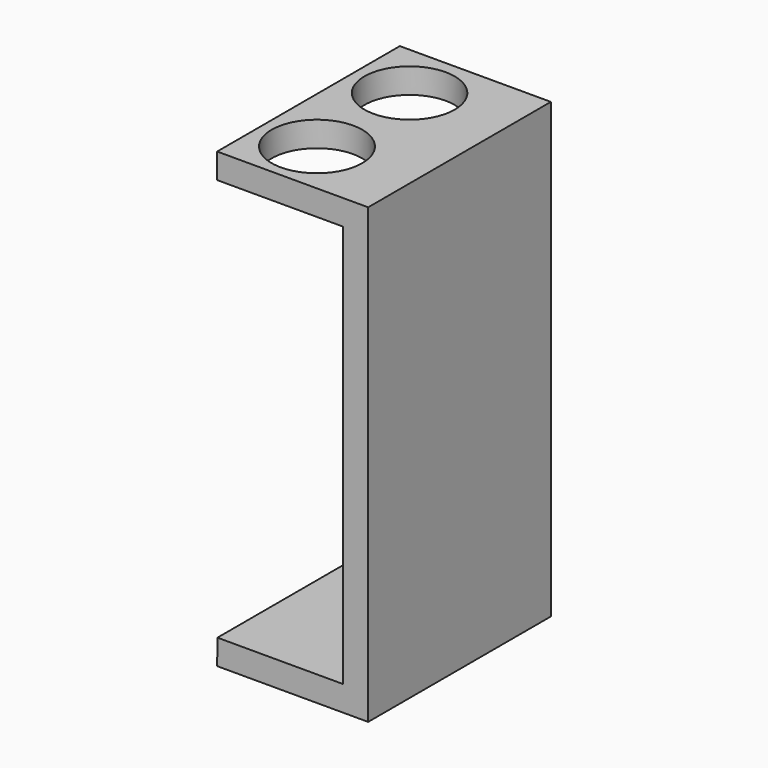
from build123d import *

# Parameters (mm, degrees)
F2_DEPTH = 45.36048
F3_R     = 9
F3_R_2   = 8.963035
F4_DEPTH = 59.16246


with BuildPart() as f2:
    # F1 (on Front) → F2 (new body)
    with BuildSketch(Plane.XZ):
        Polygon((-15.135826, 8.733852), (-15.135826, 3.733852), (9.864174, 3.733852), (9.864174, -76.266148), (-15.079743, -76.266148), (-15.135826, -81.266148), (14.864174, -81.266148), (14.864174, 8.733852), align=None)
    extrude(amount=F2_DEPTH)

    # F3 (on face) → F4 (cut)
    with BuildSketch(Plane.XY.offset(8.733852)):
        with Locations((-4.108696, -34.36048)):
            Circle(F3_R)
        with Locations((-4.108696, -11.36048)):
            Circle(F3_R_2)
    extrude(amount=-F4_DEPTH, mode=Mode.SUBTRACT)


solid = f2.part
